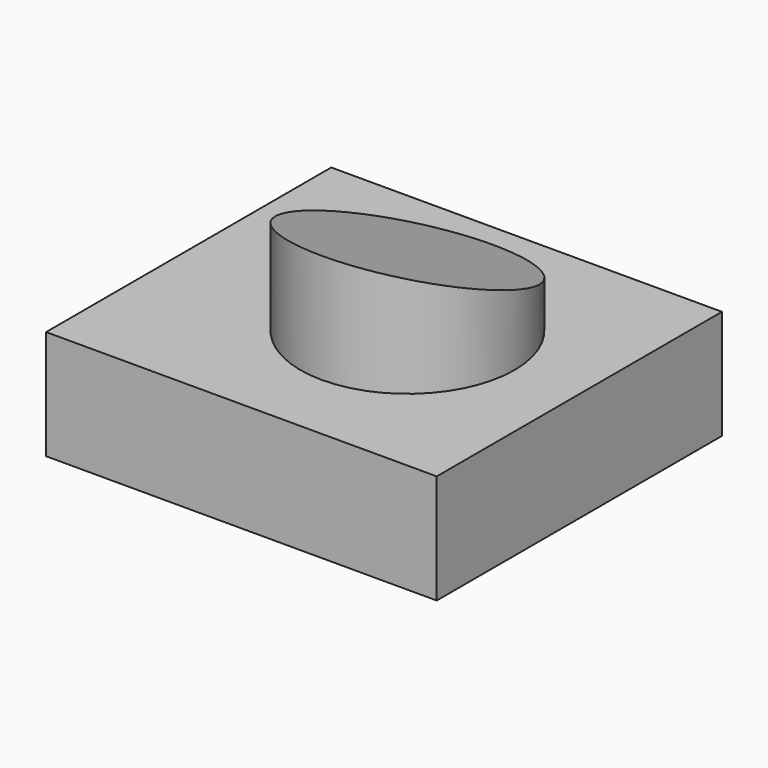
from build123d import *

# Parameters (mm, degrees)
F0_W     = 90.770632
F0_H     = 82.823328
F1_DEPTH = 25.4
F2_R     = 24.860346
F3_DEPTH = 25.4
F5_DEPTH = 90.771632


with BuildPart() as f1:
    # F0 (on Top) → F1 (new body)
    with BuildSketch(Plane.XY):
        Rectangle(F0_W, F0_H)
    extrude(amount=F1_DEPTH)

    # F2 (on face) → F3 (join)
    with BuildSketch(Plane.XY.offset(25.4)):
        with Locations((5.451556, 0)):
            Circle(F2_R)
    extrude(amount=F3_DEPTH)

    # F4 (on face) → F5 (cut, through all)
    with BuildSketch(Plane.YZ.offset(45.385316)):
        Polygon((24.860346, 50.8), (-24.860346, 50.8), (24.860346, 32.836914), align=None)
    extrude(amount=-F5_DEPTH, mode=Mode.SUBTRACT)


solid = f1.part
